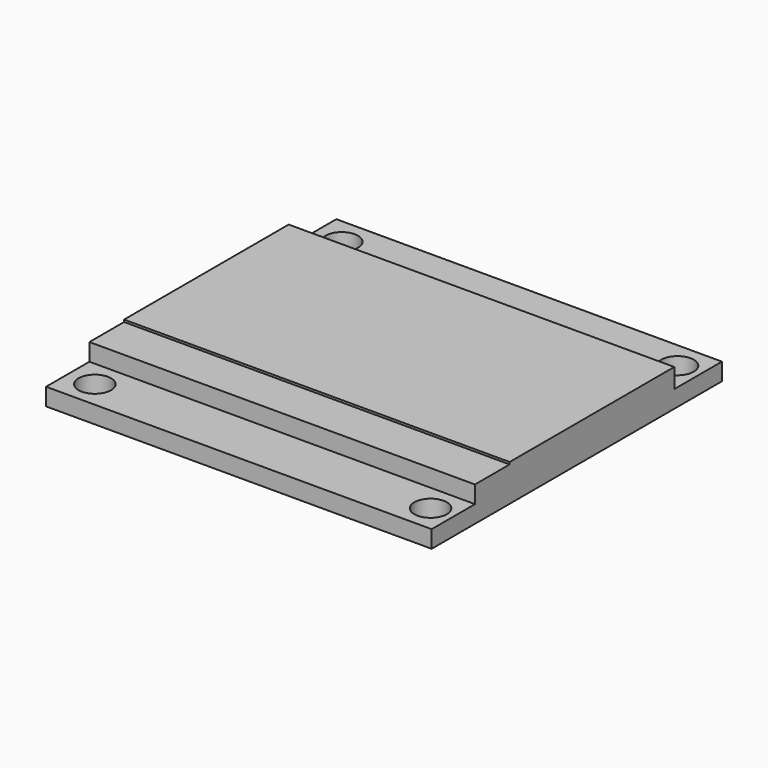
from build123d import *

# Parameters (mm, degrees)
BOX003_W          = 35.6
BOX003_H          = 19
BOX003_DEPTH      = 0.2
CYLINDER003_R     = 1.5
CYLINDER003_DEPTH = 10
CYLINDER004_R     = 1.5
CYLINDER004_DEPTH = 10
CYLINDER005_R     = 1.5
CYLINDER005_DEPTH = 10
CYLINDER006_R     = 1.5
CYLINDER006_DEPTH = 10
BOX001_W          = 35.6
BOX001_H          = 33.5
BOX001_DEPTH      = 1.6
BOX002_W          = 35.6
BOX002_H          = 23
BOX002_DEPTH      = 1.6


with BuildPart() as cube001:
    # Box003 → Box003 (new body)
    with BuildSketch(Plane(origin=(0, 9, 53.2), x_dir=(1, 0, 0), z_dir=(0, 0, 1))):
        with Locations((17.8, 9.5)):
            Rectangle(BOX003_W, BOX003_H)
    extrude(amount=BOX003_DEPTH)


with BuildPart() as cylinder003:
    # Cylinder003 → Cylinder003 (new body)
    with BuildSketch(Plane(origin=(2.5, 2.5, 45), x_dir=(1, 0, 0), z_dir=(0, 0, 1))):
        Circle(CYLINDER003_R)
    extrude(amount=CYLINDER003_DEPTH)


with BuildPart() as cylinder004:
    # Cylinder004 → Cylinder004 (new body)
    with BuildSketch(Plane(origin=(33.5, 2.5, 45), x_dir=(1, 0, 0), z_dir=(0, 0, 1))):
        Circle(CYLINDER004_R)
    extrude(amount=CYLINDER004_DEPTH)


with BuildPart() as cylinder005:
    # Cylinder005 → Cylinder005 (new body)
    with BuildSketch(Plane(origin=(2.5, 31, 45), x_dir=(1, 0, 0), z_dir=(0, 0, 1))):
        Circle(CYLINDER005_R)
    extrude(amount=CYLINDER005_DEPTH)


with BuildPart() as fusion017:
    # Cylinder006 → Cylinder006 (new body)
    with BuildSketch(Plane(origin=(33.5, 31, 45), x_dir=(1, 0, 0), z_dir=(0, 0, 1))):
        Circle(CYLINDER006_R)
    extrude(amount=CYLINDER006_DEPTH)

    # Fusion017: union Cylinder003, Cylinder004, Cylinder005
    add(cylinder003.part)
    add(cylinder004.part)
    add(cylinder005.part)


with BuildPart() as cut:
    # Box001 → Box001 (new body)
    with BuildSketch(Plane.XY.offset(50)):
        with Locations((17.8, 16.75)):
            Rectangle(BOX001_W, BOX001_H)
    extrude(amount=BOX001_DEPTH)

    # Cut: cut Fusion017
    add(fusion017.part, mode=Mode.SUBTRACT)


with BuildPart() as oled001:
    # Box002 → Box002 (new body)
    with BuildSketch(Plane(origin=(0, 5, 51.6), x_dir=(1, 0, 0), z_dir=(0, 0, 1))):
        with Locations((17.8, 11.5)):
            Rectangle(BOX002_W, BOX002_H)
    extrude(amount=BOX002_DEPTH)

    # Fusion018: union Cube001, Cut
    add(cube001.part)
    add(cut.part)


solid = oled001.part
